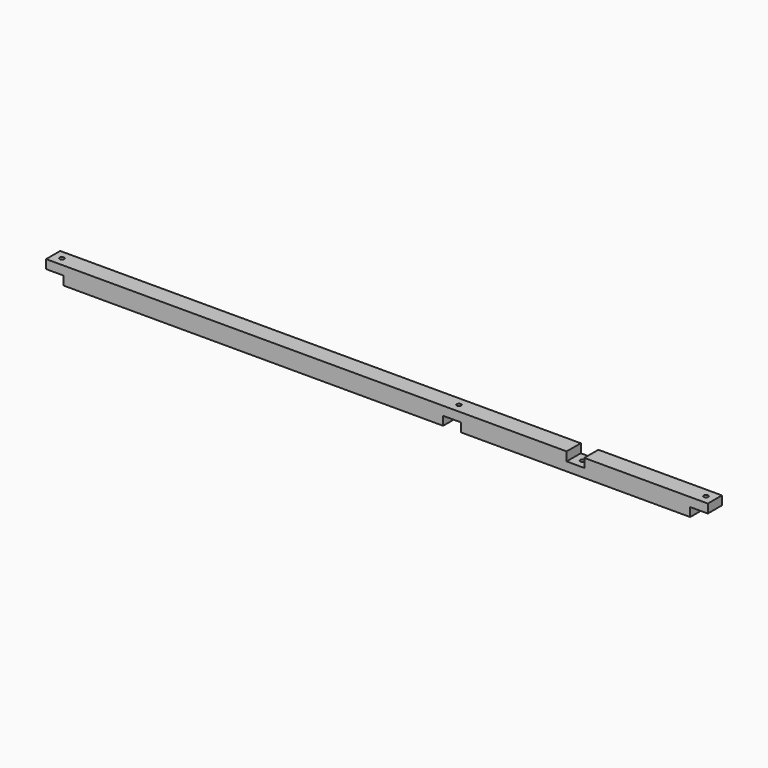
from build123d import *

# Parameters (mm, degrees)
SKETCH030_W     = 40
SKETCH030_H     = 40
PAD022_DEPTH    = 1500
SKETCH031_W     = 40
SKETCH031_H     = 40
POCKET008_DEPTH = 20
SKETCH032_W     = 40
SKETCH032_H     = 40
POCKET009_DEPTH = 20
SKETCH059_R     = 5
POCKET014_DEPTH = 40.001


with BuildPart() as part:
    # Sketch030 → Pad022 (new body)
    with BuildSketch(Plane.YZ):
        with Locations((-300, 280)):
            Rectangle(SKETCH030_W, SKETCH030_H)
    extrude(amount=PAD022_DEPTH)

    # Sketch031 (on Face3 of Pad022) → Pocket008 (cut)
    with BuildSketch(Plane.YX.offset(-260)):
        with Locations((-300, 1480)):
            Rectangle(SKETCH031_W, SKETCH031_H)
        with Locations((-300, 920)):
            Rectangle(SKETCH031_W, SKETCH031_H)
        with Locations((-300, 20)):
            Rectangle(SKETCH031_W, SKETCH031_H)
    extrude(amount=-POCKET008_DEPTH, mode=Mode.SUBTRACT)

    # Sketch032 (on Face1 of Pocket008) → Pocket009 (cut)
    with BuildSketch(Plane(origin=(0, 0, 300), x_dir=(0, -1, 0), z_dir=(0, 0, 1))):
        with Locations((300, 1200)):
            Rectangle(SKETCH032_W, SKETCH032_H)
    extrude(amount=-POCKET009_DEPTH, mode=Mode.SUBTRACT)

    # Sketch059 (on Face1 of Pocket009) → Pocket014 (cut, through all)
    with BuildSketch(Plane(origin=(0, 0, 300), x_dir=(0, -1, 0), z_dir=(0, 0, 1))):
        with Locations((300, 20)):
            Circle(SKETCH059_R)
        with Locations((300, 920)):
            Circle(SKETCH059_R)
        with Locations((300, 1480)):
            Circle(SKETCH059_R)
        with Locations((300, 1200)):
            Circle(SKETCH059_R)
    extrude(amount=-POCKET014_DEPTH, mode=Mode.SUBTRACT)


with BuildPart() as part_1:
    # Clone010 placement: moved
    add(part.part.moved(Location((0, 0, 450))))


solid = part_1.part
